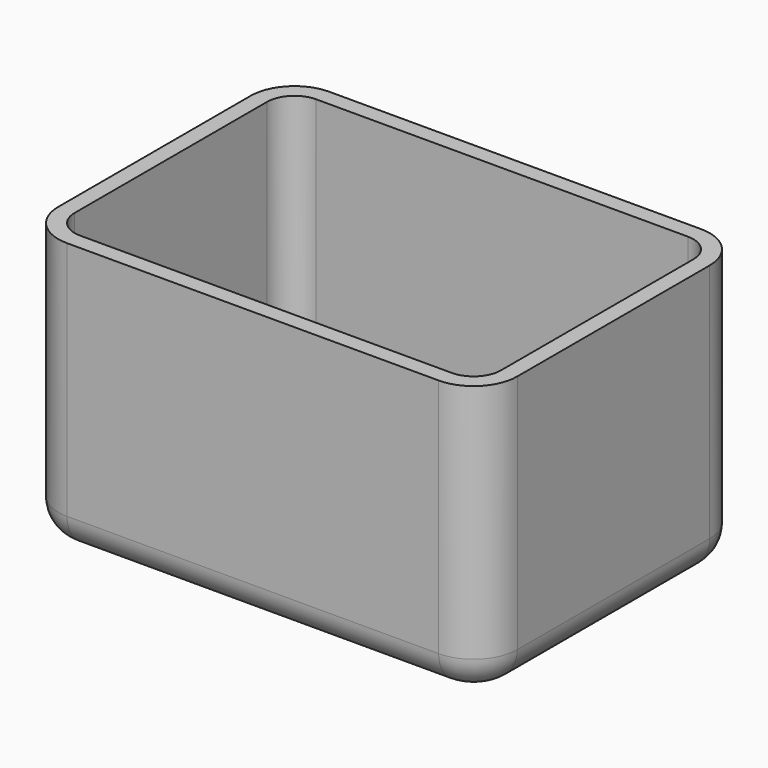
from build123d import *

# Parameters (mm, degrees)
F1_DEPTH = 25
F2_T     = -1.5
F3_R     = 3


with BuildPart() as f1:
    # F0 (on Top) → F1 (new body)
    with BuildSketch(Plane.XY):
        with BuildLine():
            Line((27.462885, 18.069044), (-6.537115, 18.069044))
            ThreePointArc((-6.537115, 18.069044), (-9.365542, 16.897471), (-10.537115, 14.069044))
            Line((-10.537115, 14.069044), (-10.537115, -7.930956))
            ThreePointArc((-10.537115, -7.930956), (-9.365542, -10.759383), (-6.537115, -11.930956))
            Line((-6.537115, -11.930956), (27.462885, -11.930956))
            ThreePointArc((27.462885, -11.930956), (30.291312, -10.759383), (31.462885, -7.930956))
            Line((31.462885, -7.930956), (31.462885, 14.069044))
            ThreePointArc((31.462885, 14.069044), (30.291312, 16.897471), (27.462885, 18.069044))
        make_face()
    extrude(amount=F1_DEPTH)

    # F2
    f2_openings = [f1.faces().sort_by_distance(p)[0] for p in [
        (10.462885, 3.069044, 25),
    ]]
    offset(amount=F2_T, openings=f2_openings)

    # F3
    f3_edges = [f1.edges().sort_by_distance(p)[0] for p in [
        (10.462885, -11.930956, 0),
    ]]
    fillet(f3_edges, radius=F3_R)


solid = f1.part
